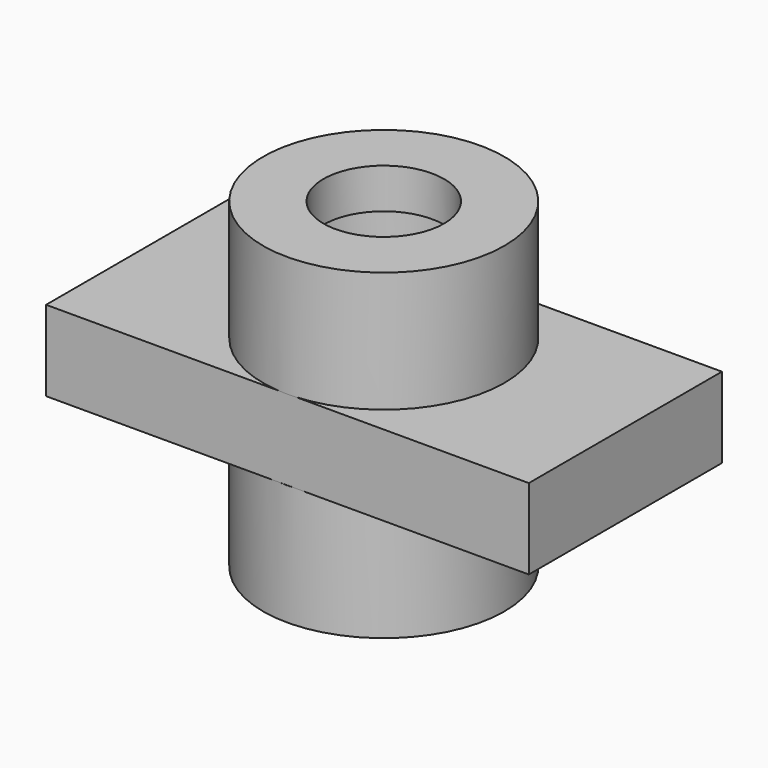
from build123d import *

# Parameters (mm, degrees)
F0_W          = 9.525
F0_H          = 19.05
F3_DEPTH      = 38.1
F3_DEPTH_BACK = 38.1
F4_R          = 9.525
F5_DEPTH      = 19.051
F5_DEPTH_BACK = 80.41506


with BuildPart() as f1:
    # F0 (on Front) → F1 (revolve)
    with BuildSketch(Plane.XZ):
        Polygon((9.525, 19.05), (9.525, 12.7), (19.05, 12.7), (19.05, 31.75), (9.525, 31.75), (9.525, 25.4), (12.7, 25.4), (12.7, 19.05), align=None)
    revolve(axis=Axis((0, 0, 4.6598147601), (0, 0, -1)))



with BuildPart() as f1b:
    # F0 (on Front) → F1, piece 2 (revolve)
    with BuildSketch(Plane.XZ):
        with Locations((14.2875, -9.525)):
            Rectangle(F0_W, F0_H)
    revolve(axis=Axis((0, 0, 4.6598147601), (0, 0, -1)))


with BuildPart() as f1_1:
    add(f1.part)

    add(f1b.part)  # F3 merges F1b
    # F2 (on Right) → F3 (join, two sides)
    with BuildSketch(Plane.YZ) as f3_sk:
        Polygon((-19.0000009911, 0), (0, 0), (19.0999990089, 0), (19.0999990089, 12.7), (-19.0000009911, 12.7), align=None)
    extrude(amount=F3_DEPTH)
    extrude(f3_sk.sketch, amount=-F3_DEPTH_BACK)

    # F4 (on Top) → F5 (cut, two sides)
    with BuildSketch(Plane.XY) as f5_sk:
        Circle(F4_R)
    extrude(amount=-F5_DEPTH, mode=Mode.SUBTRACT)
    extrude(f5_sk.sketch, amount=F5_DEPTH_BACK, mode=Mode.SUBTRACT)


solid = f1_1.part
